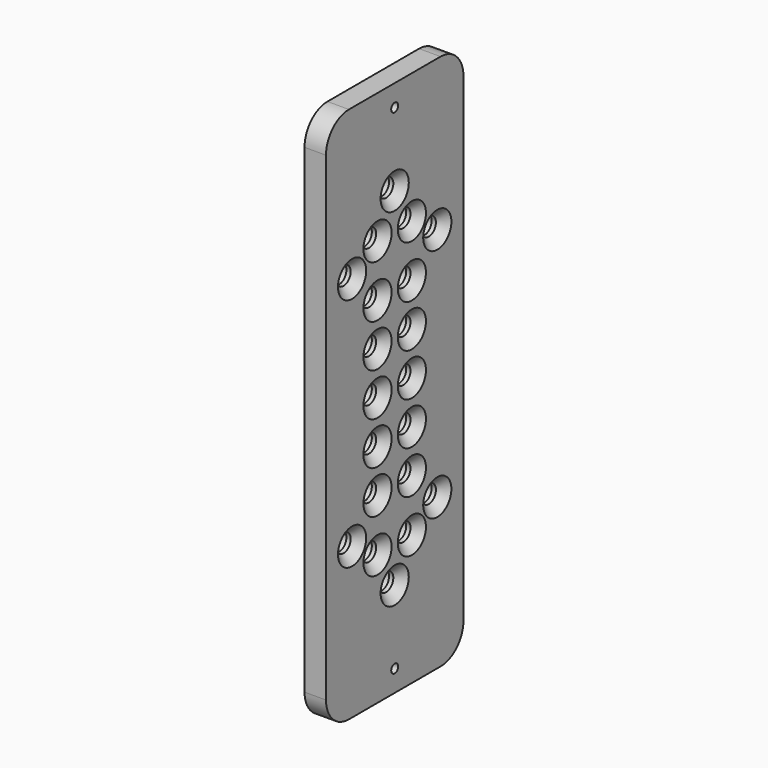
from build123d import *

# Parameters (mm, degrees)
F0_R     = 1.9304
F0_R_2   = 4
F1_DEPTH = 9.525
F2_SIZE  = 3.81
F3_R     = 4.5
F4_DEPTH = 3.81


with BuildPart() as f1:
    # F0 (on Right) → F1 (new body)
    with BuildSketch(Plane.YZ):
        with BuildLine():
            ThreePointArc((-25.373425, 125.624167), (-34.353681, 121.904423), (-38.073425, 112.924167))
            Line((-38.073425, 112.924167), (-38.073425, -99.800833))
            ThreePointArc((-38.073425, -99.800833), (-34.353681, -108.781089), (-25.373425, -112.500833))
            Line((-25.373425, -112.500833), (0.026575, -112.500833))
            Line((0.026575, -112.500833), (25.426575, -112.500833))
            ThreePointArc((25.426575, -112.500833), (34.406831, -108.781089), (38.126575, -99.800833))
            Line((38.126575, -99.800833), (38.126575, 112.924167))
            ThreePointArc((38.126575, 112.924167), (34.406831, 121.904423), (25.426575, 125.624167))
            Line((25.426575, 125.624167), (0.026575, 125.624167))
            Line((0.026575, 125.624167), (-25.373425, 125.624167))
        make_face()
        with Locations((0, -102.975833)):
            Circle(F0_R, mode=Mode.SUBTRACT)
        with Locations((-9.525, -54.732225)):
            Circle(F0_R_2, mode=Mode.SUBTRACT)
        with Locations((0, -70.430465)):
            Circle(F0_R_2, mode=Mode.SUBTRACT)
        with Locations((-23.624859, -45.638193)):
            Circle(F0_R_2, mode=Mode.SUBTRACT)
        with Locations((-9.525, -31.538333)):
            Circle(F0_R_2, mode=Mode.SUBTRACT)
        with Locations((-9.525, -12.488333)):
            Circle(F0_R_2, mode=Mode.SUBTRACT)
        with Locations((-9.525, 6.561667)):
            Circle(F0_R_2, mode=Mode.SUBTRACT)
        with Locations((9.525, -54.732225)):
            Circle(F0_R_2, mode=Mode.SUBTRACT)
        with Locations((9.525, -31.538333)):
            Circle(F0_R_2, mode=Mode.SUBTRACT)
        with Locations((9.525, -12.488333)):
            Circle(F0_R_2, mode=Mode.SUBTRACT)
        with Locations((9.525, 6.561667)):
            Circle(F0_R_2, mode=Mode.SUBTRACT)
        with Locations((23.624859, -45.638193)):
            Circle(F0_R_2, mode=Mode.SUBTRACT)
        with Locations((-23.624859, 58.761526)):
            Circle(F0_R_2, mode=Mode.SUBTRACT)
        with Locations((-9.525, 25.611667)):
            Circle(F0_R_2, mode=Mode.SUBTRACT)
        with Locations((-9.525, 44.661667)):
            Circle(F0_R_2, mode=Mode.SUBTRACT)
        with Locations((-9.525, 67.855558)):
            Circle(F0_R_2, mode=Mode.SUBTRACT)
        with Locations((0, 83.553798)):
            Circle(F0_R_2, mode=Mode.SUBTRACT)
        with Locations((0, 116.099167)):
            Circle(F0_R, mode=Mode.SUBTRACT)
        with Locations((9.525, 25.611667)):
            Circle(F0_R_2, mode=Mode.SUBTRACT)
        with Locations((9.525, 44.661667)):
            Circle(F0_R_2, mode=Mode.SUBTRACT)
        with Locations((23.624859, 58.761526)):
            Circle(F0_R_2, mode=Mode.SUBTRACT)
        with Locations((9.525, 67.855558)):
            Circle(F0_R_2, mode=Mode.SUBTRACT)
    extrude(amount=F1_DEPTH)

    # F2
    f2_edges = [f1.edges().sort_by_distance(p)[0] for p in [
        (9.525, -4, 83.553798),
        (9.525, 5.525, 67.855558),
        (9.525, 19.624859, 58.761526),
        (9.525, -13.525, 67.855558),
        (9.525, -27.624859, 58.761526),
        (9.525, -13.525, 44.661667),
        (9.525, 5.525, 44.661667),
        (9.525, -13.525, 25.611667),
        (9.525, -13.525, 6.561667),
        (9.525, -13.525, -12.488333),
        (9.525, -13.525, -31.538333),
        (9.525, 5.525, -31.538333),
        (9.525, 5.525, -12.488333),
        (9.525, 5.525, 6.561667),
        (9.525, 5.525, 25.611667),
        (9.525, 19.624859, -45.638193),
        (9.525, 5.525, -54.732225),
        (9.525, -13.525, -54.732225),
        (9.525, -27.624859, -45.638193),
        (9.525, -4, -70.430465),
    ]]
    chamfer(f2_edges, length=F2_SIZE)

    # F3 (on Right) → F4 (cut)
    with BuildSketch(Plane.YZ):
        with Locations((0, -70.430465)):
            Circle(F3_R)
        with Locations((0, 83.553798)):
            Circle(F3_R)
        with Locations((9.525, -31.538333)):
            Circle(F3_R)
        with Locations((9.525, -12.488333)):
            Circle(F3_R)
        with Locations((9.525, 6.561667)):
            Circle(F3_R)
        with Locations((9.525, 25.611667)):
            Circle(F3_R)
        with Locations((9.525, 44.661667)):
            Circle(F3_R)
        with Locations((-9.525, -31.538333)):
            Circle(F3_R)
        with Locations((-9.525, -12.488333)):
            Circle(F3_R)
        with Locations((-9.525, 6.561667)):
            Circle(F3_R)
        with Locations((-9.525, 25.611667)):
            Circle(F3_R)
        with Locations((-9.525, 44.661667)):
            Circle(F3_R)
        with Locations((23.624859, 58.761526)):
            Circle(F3_R)
        with Locations((9.525, 67.855558)):
            Circle(F3_R)
        with Locations((-23.624859, 58.761526)):
            Circle(F3_R)
        with Locations((-9.525, 67.855558)):
            Circle(F3_R)
        with Locations((23.624859, -45.638193)):
            Circle(F3_R)
        with Locations((9.525, -54.732225)):
            Circle(F3_R)
        with Locations((-9.525, -54.732225)):
            Circle(F3_R)
        with Locations((-23.624859, -45.638193)):
            Circle(F3_R)
    extrude(amount=F4_DEPTH, mode=Mode.SUBTRACT)


solid = f1.part
